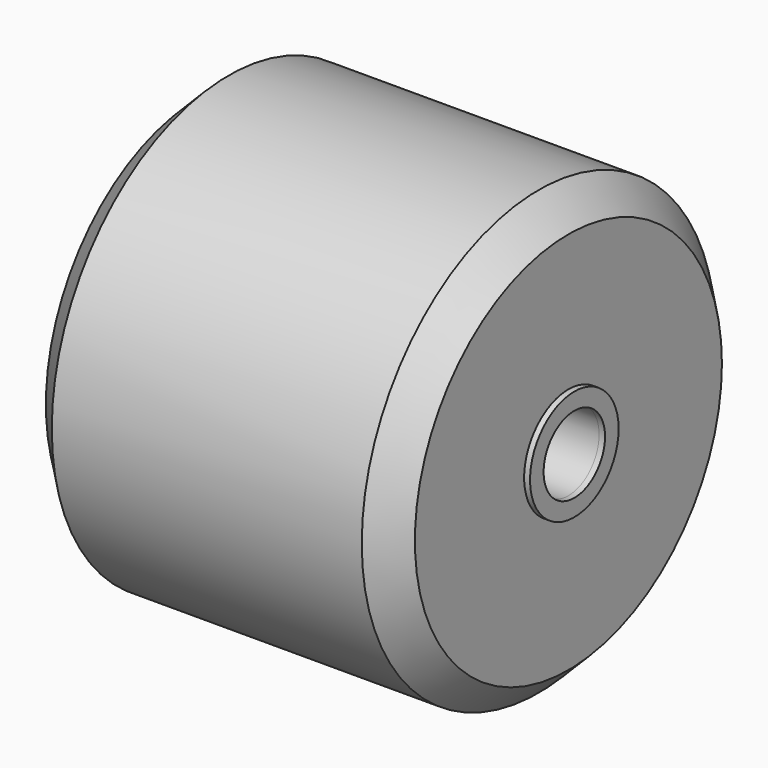
from build123d import *

# Parameters (mm, degrees)
F0_R     = 19.05
F1_DEPTH = 31.75
F2_R     = 3.302
F3_DEPTH = 31.75
F4_SIZE  = 2.54
F5_R     = 4.7625
F5_R_2   = 3.302
F6_DEPTH = 0.508


with BuildPart() as f1:
    # F0 (on Right) → F1 (new body)
    with BuildSketch(Plane.YZ):
        Circle(F0_R)
    extrude(amount=F1_DEPTH)

    # F2 (on Right) → F3 (cut)
    with BuildSketch(Plane.YZ):
        Circle(F2_R)
    extrude(amount=F3_DEPTH, mode=Mode.SUBTRACT)

    # F4
    f4_edges = [f1.edges().sort_by_distance(p)[0] for p in [
        (31.75, -19.05, 0),
        (0, -19.05, 0),
    ]]
    chamfer(f4_edges, length=F4_SIZE)


with BuildPart() as f6:
    # F5 (on face) → F6 (new body)
    with BuildSketch(Plane.YZ.offset(31.75)):
        Circle(F5_R)
        Circle(F5_R_2, mode=Mode.SUBTRACT)
    extrude(amount=F6_DEPTH)


solid = Compound([f1.part, f6.part])
